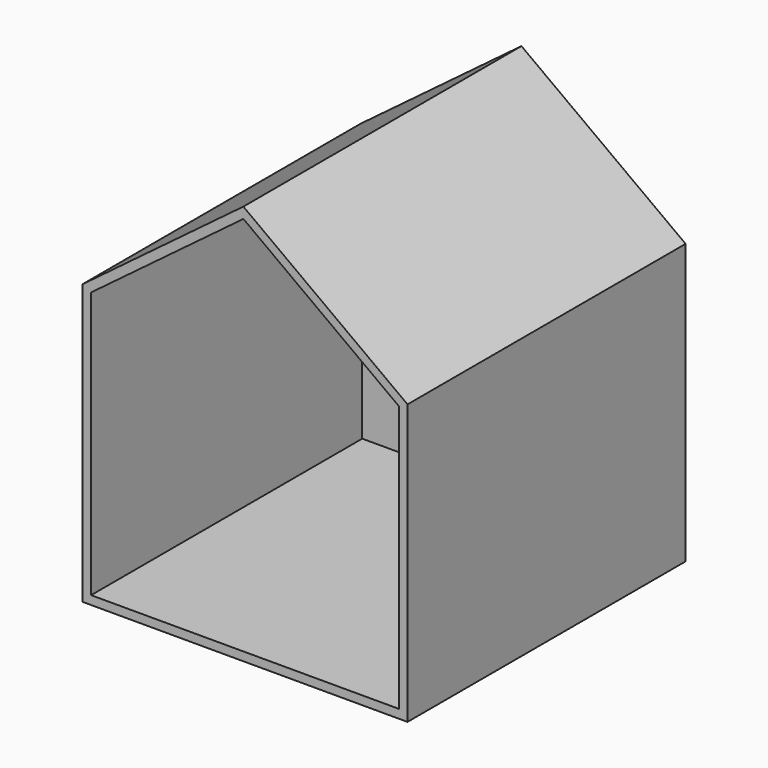
from build123d import *

# Parameters (mm, degrees)
F0_W     = 95.023792459
F0_H     = 81.7123409361
F1_DEPTH = 101.6
F2_T     = -2.54


with BuildPart() as f1:
    # F0 (on Front) → F1 (new body)
    with BuildSketch(Plane.XZ):
        with Locations((0.46539504, -22.7494584396)):
            Rectangle(F0_W, F0_H)
        Polygon((0, 53.3915869892), (-47.0465011895, 18.1067120284), (47.9772912695, 18.1067120284), align=None)
    extrude(amount=F1_DEPTH)

    # F2
    f2_openings = [f1.faces().sort_by_distance(p)[0] for p in [
        (0.437848, -101.6, -13.406111),
    ]]
    offset(amount=F2_T, openings=f2_openings)


solid = f1.part
